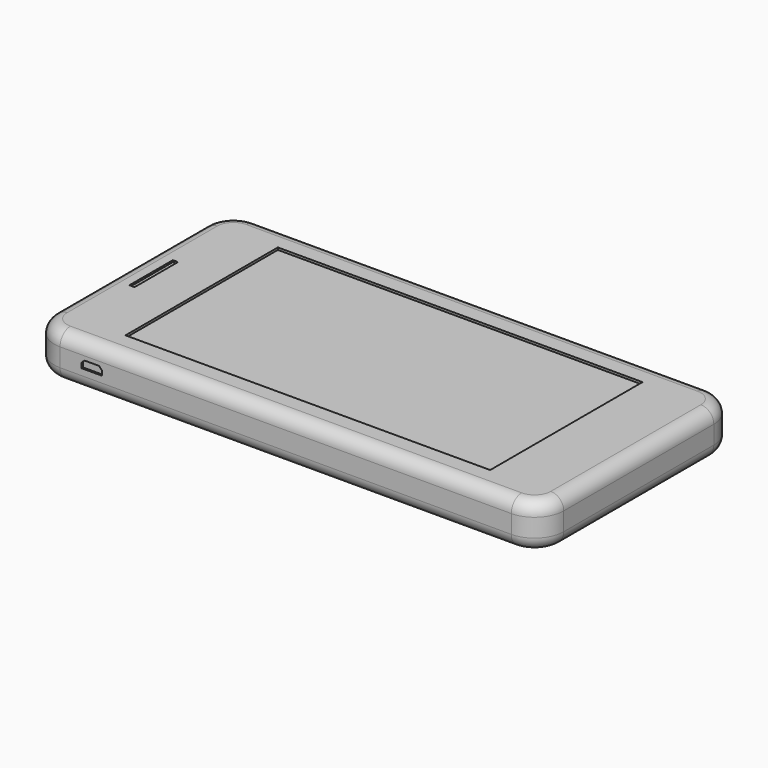
from build123d import *

# Parameters (mm, degrees)
F0_W      = 114
F0_H      = 55
F1_DEPTH  = 10
F2_R      = 6.5183766184
F3_R      = 3
F4_R      = 2.8970562748
F5_R      = 1.7337923038
F6_DEPTH  = 0.5
F7_W      = 14.7860310972
F7_H      = 1.384280622
F8_DEPTH  = 0.5
F9_R      = 4.3601608972
F10_DEPTH = 1.5
F11_W     = 1.1572175405
F11_H     = 12.150795199
F12_DEPTH = 0.4
F13_W     = 81.5876945853
F13_H     = 42.6051579416
F14_DEPTH = 0.5
F16_DEPTH = 0.4
F17_R     = 1.5038769237
F18_DEPTH = 10
F19_W     = 8.4370337427
F19_H     = 1.285196282
F20_DEPTH = 0.5


with BuildPart() as f1:
    # F0 (on Top) → F1 (new body)
    with BuildSketch(Plane.XY):
        Rectangle(F0_W, F0_H)
    extrude(amount=F1_DEPTH)

    # F2
    f2_edges = [f1.edges().sort_by_distance(p)[0] for p in [
        (57, -27.5, 5),
        (-57, -27.5, 5),
        (57, 27.5, 5),
        (-57, 27.5, 5),
    ]]
    fillet(f2_edges, radius=F2_R)

    # F3
    f3_edges = [f1.edges().sort_by_distance(p)[0] for p in [
        (55.090812, -25.590812, 0),
        (-55.090812, -25.590812, 0),
        (-55.090812, 25.590812, 0),
        (55.090812, 25.590812, 0),
    ]]
    fillet(f3_edges, radius=F3_R)

    # F4
    f4_edges = [f1.edges().sort_by_distance(p)[0] for p in [
        (0, 27.5, 10),
        (55.090812, 25.590812, 10),
        (-55.090812, 25.590812, 10),
        (57, 0, 10),
        (-57, 0, 10),
        (55.090812, -25.590812, 10),
        (-55.090812, -25.590812, 10),
        (0, -27.5, 10),
    ]]
    fillet(f4_edges, radius=F4_R)

    # F5 (on face) → F6 (join)
    with BuildSketch(Plane(origin=(0, 27.5, 0), x_dir=(-1, 0, 0), z_dir=(0, 1, 0))):
        with Locations((0, 4.9682608806)):
            Circle(F5_R)
    extrude(amount=F6_DEPTH)

    # F7 (on face) → F8 (join)
    with BuildSketch(Plane(origin=(0, 27.5, 0), x_dir=(-1, 0, 0), z_dir=(0, 1, 0))):
        with Locations((19.3366743624, 5.336954724)):
            Rectangle(F7_W, F7_H)
    extrude(amount=F8_DEPTH)

    # F9 (on face) → F10 (cut)
    with BuildSketch(Plane(origin=(0, 0, 0), x_dir=(1, 0, 0), z_dir=(0, 0, -1))):
        with Locations((-41.5013991296, 0)):
            Circle(F9_R)
    extrude(amount=-F10_DEPTH, mode=Mode.SUBTRACT)

    # F11 (on face) → F12 (cut)
    with BuildSketch(Plane.XY.offset(10)):
        with Locations((-51.5272360634, 0)):
            Rectangle(F11_W, F11_H)
    extrude(amount=-F12_DEPTH, mode=Mode.SUBTRACT)

    # F13 (on face) → F14 (cut)
    with BuildSketch(Plane.XY.offset(10)):
        Rectangle(F13_W, F13_H)
    extrude(amount=-F14_DEPTH, mode=Mode.SUBTRACT)

    # F15 (on face) → F16 (cut)
    with BuildSketch(Plane.XZ.offset(27.5)):
        Polygon((-41.7614616454, 6.1881397851), (-44.9712947011, 6.1881397851), (-45.7120239735, 5.5502885953), (-45.7120239735, 4.459768068), (-41.1441847682, 4.459768068), (-41.1441847682, 5.5502885953), align=None)
    extrude(amount=-F16_DEPTH, mode=Mode.SUBTRACT)

    # F17 (on face) → F18 (cut)
    with BuildSketch(Plane(origin=(-57, 0, 0), x_dir=(0, -1, 0), z_dir=(-1, 0, 0))):
        with Locations((13.8453152031, 4.8393858597)):
            Circle(F17_R)
    extrude(amount=-F18_DEPTH, mode=Mode.SUBTRACT)

    # F19 (on face) → F20 (join)
    with BuildSketch(Plane(origin=(-57, 0, 0), x_dir=(0, -1, 0), z_dir=(-1, 0, 0))):
        with Locations((-14.7477723658, 4.9256444909)):
            Rectangle(F19_W, F19_H)
    extrude(amount=F20_DEPTH)


solid = f1.part
